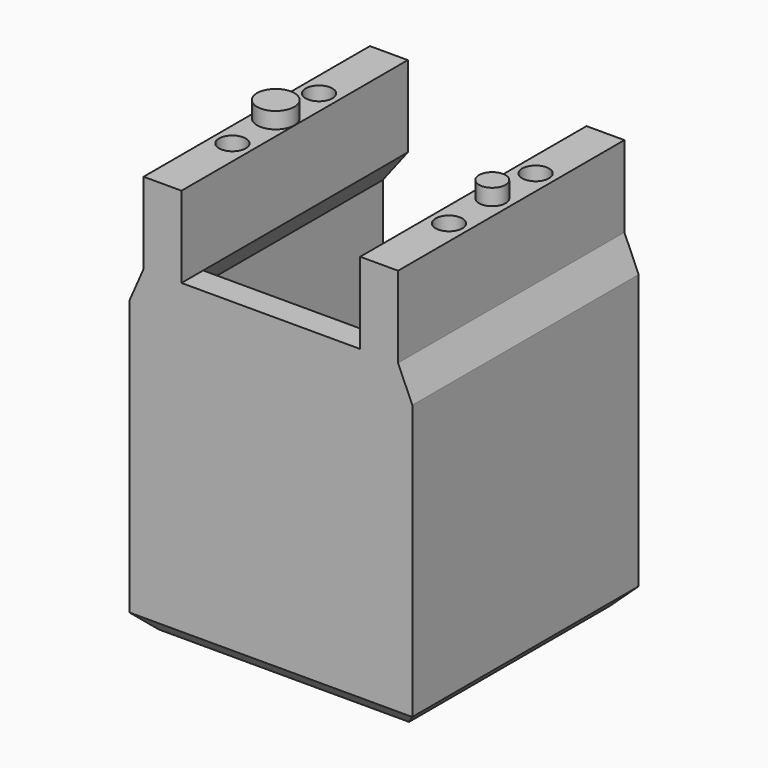
from build123d import *

# Parameters (mm, degrees)
SKETCH_R        = 1.65
PAD_DEPTH       = 6.5
POCKET_DEPTH    = 2.5
PAD001_DEPTH    = 47.2
CHAMFER_SIZE    = 1
PAD002_DEPTH    = 52.25
SKETCH004_R     = 2.475
POCKET001_DEPTH = 15
PAD003_DEPTH    = 5
SKETCH006_R     = 3.45
SKETCH006_R_2   = 2.45
PAD004_DEPTH    = 3
CHAMFER001_SIZE = 3


with BuildPart() as part:
    # Sketch → Pad (new body)
    with BuildSketch(Plane.XY):
        with BuildLine():
            ThreePointArc((-3, 0), (0, -3), (3, 0))
            Line((3, 0), (3, 26.125))
            Line((3, 26.125), (26.125, 26.125))
            Line((26.125, -26.125), (26.125, 26.125))
            Line((-26.125, -26.125), (26.125, -26.125))
            Line((-26.125, 26.125), (-26.125, -26.125))
            Line((-26.125, 26.125), (-3, 26.125))
            Line((-3, 0), (-3, 26.125))
        make_face()
        with Locations((-15.5, -15.5)):
            Circle(SKETCH_R, mode=Mode.SUBTRACT)
        with Locations((15.5, -15.5)):
            Circle(SKETCH_R, mode=Mode.SUBTRACT)
        with Locations((15.5, 15.5)):
            Circle(SKETCH_R, mode=Mode.SUBTRACT)
        with Locations((-15.5, 15.5)):
            Circle(SKETCH_R, mode=Mode.SUBTRACT)
    extrude(amount=PAD_DEPTH)

    # Sketch001 (on Face14 of Pad) → Pocket (cut)
    with BuildSketch(Plane.XY.offset(6.5)):
        with BuildLine():
            ThreePointArc((-11.1, 0), (0, -11.1), (11.1, 0))
            Line((11.1, 0), (11.1, 26.125))
            Line((-11.1, 26.125), (11.1, 26.125))
            Line((-11.1, 0), (-11.1, 26.125))
        make_face()
    extrude(amount=-POCKET_DEPTH, mode=Mode.SUBTRACT)

    # Sketch002 (on Face6 of Pocket) → Pad001 (join)
    with BuildSketch(Plane.XY.offset(6.5)):
        Polygon((-26.125, -26.125), (-26.125, 26.125), (-21.125, 26.125), (-21.125, -21.125), (21.125, -21.125), (21.125, 26.125), (26.125, 26.125), (26.125, -26.125), align=None)
    extrude(amount=PAD001_DEPTH)

    # Chamfer
    chamfer_edges = [part.edges().sort_by_distance(p)[0] for p in [
        (3, 26.125, 2),
        (11.1, 26.125, 5.25),
        (-3, 26.125, 2),
        (-11.1, 26.125, 5.25),
    ]]
    chamfer(chamfer_edges, length=CHAMFER_SIZE)

    # Sketch003 (on Face10 of Chamfer) → Pad002 (join)
    with BuildSketch(Plane(origin=(0, 26.125, 0), x_dir=(-1, 0, 0), z_dir=(0, 1, 0))):
        Polygon((-26.125, 53.7), (-23.5, 59.7), (-23.5, 74.7), (-16.5, 74.7), (-16.5, 59.7), (-21.125, 53.7), align=None)
        Polygon((26.125, 53.7), (23.5, 59.7), (23.5, 74.7), (16.5, 74.7), (16.5, 59.7), (21.125, 53.7), align=None)
    extrude(amount=-PAD002_DEPTH)

    # Sketch004 (on Face32 of Pad002) → Pocket001 (cut)
    with BuildSketch(Plane.XY.offset(74.7)):
        with Locations((-20, 10)):
            Circle(SKETCH004_R)
        with Locations((-20, -10)):
            Circle(SKETCH004_R)
        with Locations((20, -10)):
            Circle(SKETCH004_R)
        with Locations((20, 10)):
            Circle(SKETCH004_R)
    extrude(amount=-POCKET001_DEPTH, mode=Mode.SUBTRACT)

    # Sketch005 (on Face6 of Pocket001) → Pad003 (join)
    with BuildSketch(Plane.XZ.offset(26.125)):
        Polygon((-16.5, 59.7), (16.5, 59.7), (21.125, 53.7), (-21.125, 53.7), align=None)
    extrude(amount=-PAD003_DEPTH)

    # Sketch006 (on Face17 of Pad003) → Pad004 (join)
    with BuildSketch(Plane.XY.offset(74.7)):
        with Locations((-20, 0)):
            Circle(SKETCH006_R)
        with Locations((20, 0)):
            Circle(SKETCH006_R_2)
    extrude(amount=PAD004_DEPTH)

    # Chamfer001
    chamfer001_edges = [part.edges().sort_by_distance(p)[0] for p in [
        (26.125, 0, 0),
        (15.0625, 26.125, 0),
        (-15.0625, 26.125, 0),
        (-26.125, 0, 0),
        (0, -26.125, 0),
    ]]
    chamfer(chamfer001_edges, length=CHAMFER001_SIZE)


solid = part.part
